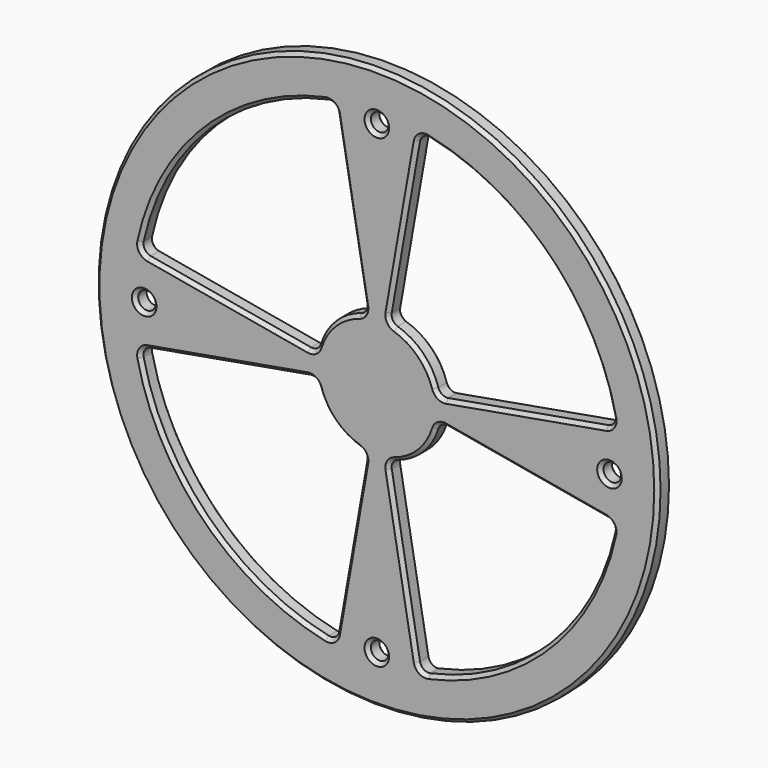
from build123d import *

# Parameters (mm, degrees)
SKETCH064_R           = 32
SKETCH064_R_2         = 1
PAD017_DEPTH          = 2
POCKET040_DEPTH       = 183.064525
POLARPATTERN001_COUNT = 4
FILLET006_R           = 1
CHAMFER009_SIZE       = 0.4


with BuildPart() as part:
    # Sketch064 → Pad017 (new body)
    with BuildSketch(Plane.XZ):
        Circle(SKETCH064_R)
        with Locations((0, 26.5)):
            Circle(SKETCH064_R_2, mode=Mode.SUBTRACT)
        with Locations((-26.5, 0)):
            Circle(SKETCH064_R_2, mode=Mode.SUBTRACT)
        with Locations((26.5, 0)):
            Circle(SKETCH064_R_2, mode=Mode.SUBTRACT)
        with Locations((0, -26.5)):
            Circle(SKETCH064_R_2, mode=Mode.SUBTRACT)
    extrude(amount=PAD017_DEPTH)

    # Sketch065 (on Face7 of Pad017) → Pocket040 (cut, through all)
    with BuildSketch(Plane.XZ.offset(2)):
        with BuildLine():
            ThreePointArc((-4.775325, 27.082213), (-19.445436, 19.445436), (-27.082213, 4.775325))
            Line((-27.082213, 4.775325), (-6.893654, 1.215537))
            ThreePointArc((-1.215537, 6.893654), (-4.949747, 4.949747), (-6.893654, 1.215537))
            Line((-4.775325, 27.082213), (-1.215537, 6.893654))
        make_face()
    pocket040 = extrude(amount=-POCKET040_DEPTH, mode=Mode.SUBTRACT)

    # PolarPattern001: Pocket040 ×4 about axis
    polarpattern001_axis = Axis((0, -2, 0), (0, -1, 0))
    for i in range(1, POLARPATTERN001_COUNT):
        add(pocket040.rotate(polarpattern001_axis, i * 360 / POLARPATTERN001_COUNT), mode=Mode.SUBTRACT)

    # Fillet006
    fillet006_edges = [part.edges().sort_by_distance(p)[0] for p in [
        (-27.082213, -1, 4.775325),
        (4.775325, -1, 27.082213),
        (27.082213, -1, -4.775325),
        (-4.775325, -1, -27.082213),
        (-1.215537, -1, -6.893654),
        (6.893654, -1, -1.215537),
        (1.215537, -1, 6.893654),
        (-6.893654, -1, 1.215537),
        (-1.215537, -1, 6.893654),
        (27.082213, -1, 4.775325),
        (6.893654, -1, 1.215537),
        (4.775325, -1, -27.082213),
        (1.215537, -1, -6.893654),
        (-27.082213, -1, -4.775325),
        (-4.775325, -1, 27.082213),
        (-6.893654, -1, -1.215537),
    ]]
    fillet(fillet006_edges, radius=FILLET006_R)

    # Chamfer009
    chamfer009_edges = [part.edges().sort_by_distance(p)[0] for p in [
        (-16.947743, -2, -2.988344),
        (-26.735, -2, -5.025191),
        (-7.121868, -2, -1.509634),
        (-19.445436, -2, -19.445436),
        (-4.949747, -2, -4.949747),
        (-5.025191, -2, -26.735),
        (-1.509634, -2, -7.121868),
        (-2.988344, -2, -16.947743),
        (-32, -2, 0),
        (-27.5, -2, 0),
        (-1, -2, -26.5),
        (-1, -2, 26.5),
        (25.5, -2, 0),
        (-2.988344, -2, 16.947743),
        (-5.025191, -2, 26.735),
        (-1.509634, -2, 7.121868),
        (-19.445436, -2, 19.445436),
        (-4.949747, -2, 4.949747),
        (-26.735, -2, 5.025191),
        (-7.121868, -2, 1.509634),
        (-16.947743, -2, 2.988344),
        (2.988344, -2, -16.947743),
        (5.025191, -2, -26.735),
        (1.509634, -2, -7.121868),
        (19.445436, -2, -19.445436),
        (4.949747, -2, -4.949747),
        (26.735, -2, -5.025191),
        (7.121868, -2, -1.509634),
        (16.947743, -2, -2.988344),
        (16.947743, -2, 2.988344),
        (26.735, -2, 5.025191),
        (7.121868, -2, 1.509634),
        (19.445436, -2, 19.445436),
        (4.949747, -2, 4.949747),
        (5.025191, -2, 26.735),
        (1.509634, -2, 7.121868),
        (2.988344, -2, 16.947743),
        (-4.949747, 0, -4.949747),
        (-7.121868, 0, -1.509634),
        (-1.509634, 0, -7.121868),
        (-16.947743, 0, -2.988344),
        (-2.988344, 0, -16.947743),
        (-26.735, 0, -5.025191),
        (-5.025191, 0, -26.735),
        (-19.445436, 0, -19.445436),
        (-32, 0, 0),
        (-27.5, 0, 0),
        (-1, 0, -26.5),
        (-1, 0, 26.5),
        (25.5, 0, 0),
        (-4.949747, 0, 4.949747),
        (-1.509634, 0, 7.121868),
        (-7.121868, 0, 1.509634),
        (-2.988344, 0, 16.947743),
        (-16.947743, 0, 2.988344),
        (-5.025191, 0, 26.735),
        (-26.735, 0, 5.025191),
        (-19.445436, 0, 19.445436),
        (4.949747, 0, -4.949747),
        (1.509634, 0, -7.121868),
        (7.121868, 0, -1.509634),
        (2.988344, 0, -16.947743),
        (16.947743, 0, -2.988344),
        (5.025191, 0, -26.735),
        (26.735, 0, -5.025191),
        (19.445436, 0, -19.445436),
        (4.949747, 0, 4.949747),
        (7.121868, 0, 1.509634),
        (1.509634, 0, 7.121868),
        (16.947743, 0, 2.988344),
        (2.988344, 0, 16.947743),
        (26.735, 0, 5.025191),
        (5.025191, 0, 26.735),
        (19.445436, 0, 19.445436),
    ]]
    chamfer(chamfer009_edges, length=CHAMFER009_SIZE)


with BuildPart() as part_1:
    # Body007 placement: moved
    add(part.part.moved(Location((0, 51, 0))))


solid = part_1.part
